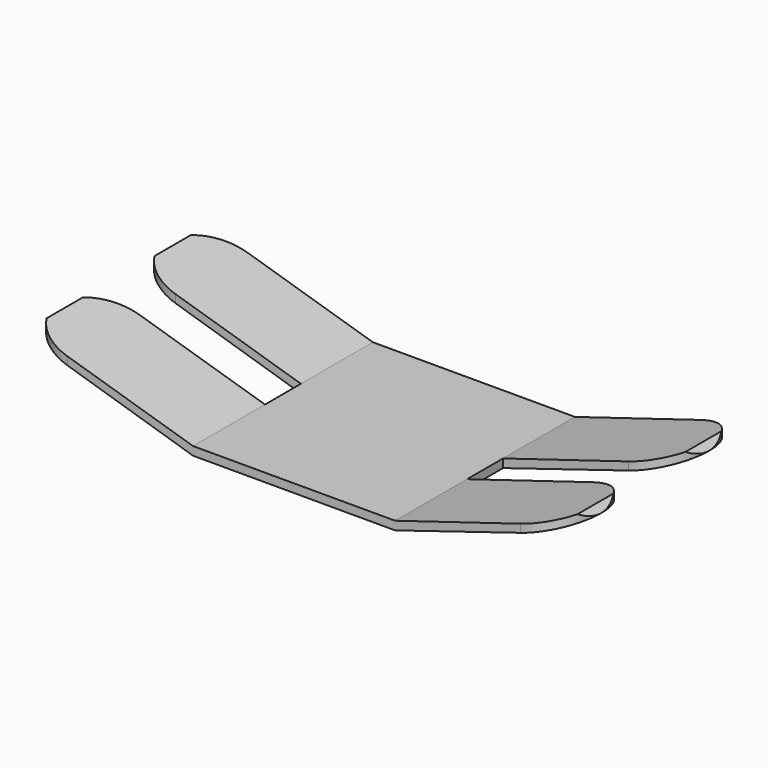
from build123d import *

# Parameters (mm, degrees)
F0_W          = 3.56
F0_H          = 0.15
F1_DEPTH      = 1.98
F1_DEPTH_BACK = 1.98
F3_DEPTH      = 25
F4_W          = 1.269972
F4_H          = 0.792
F5_DEPTH      = 25


with BuildPart() as f1:
    # F0 (on Front) → F1 (new body, two sides)
    with BuildSketch(Plane.XZ) as f1_sk:
        with Locations((0, 0.075)):
            Rectangle(F0_W, F0_H)
        Polygon((-4.78, 0.923934), (-1.78, 0), (-1.78, 0.15), (-4.673934, 1.03), align=None)
        Polygon((1.78, 0.15), (1.78, 0), (4.78, 0.923934), (4.673934, 1.03), align=None)
    extrude(amount=F1_DEPTH)
    extrude(f1_sk.sketch, amount=-F1_DEPTH_BACK)

    # F2 (on face) → F3 (cut)
    with BuildSketch(Plane.XY.offset(0.15)):
        with BuildLine():
            ThreePointArc((-4.78, 1.188), (-4.548029, 1.748029), (-3.988, 1.98))
            Line((-3.988, 1.98), (-3.981051, 2.372488))
            Line((-3.981051, 2.372488), (-5.453913, 2.372488))
            Line((-5.453913, 2.372488), (-5.453913, -2.307775))
            Line((-5.453913, -2.307775), (-3.988, -2.307775))
            Line((-3.988, -2.307775), (-3.988, -1.98))
            ThreePointArc((-3.988, -1.98), (-4.548029, -1.748029), (-4.78, -1.188))
            ThreePointArc((-4.78, -1.188), (-4.548029, -0.627972), (-3.988, -0.396))
            Line((-3.988, -0.396), (-1.78, -0.396))
            Line((-1.78, -0.396), (-1.78, 0))
            Line((-1.78, 0), (-1.78, 0.396))
            Line((-1.78, 0.396), (-3.988, 0.396))
            ThreePointArc((-3.988, 0.396), (-4.548029, 0.627972), (-4.78, 1.188))
        make_face()
        with BuildLine():
            ThreePointArc((3.988, -0.396), (4.548029, -0.627972), (4.78, -1.188))
            ThreePointArc((4.78, -1.188), (4.548029, -1.748029), (3.988, -1.98))
            Line((3.988, -1.98), (3.988, -2.307775))
            Line((3.988, -2.307775), (5.453913, -2.307775))
            Line((5.453913, -2.307775), (5.453913, 2.372488))
            Line((5.453913, 2.372488), (3.981051, 2.372488))
            Line((3.981051, 2.372488), (3.988, 1.98))
            ThreePointArc((3.988, 1.98), (4.548029, 1.748029), (4.78, 1.188))
            ThreePointArc((4.78, 1.188), (4.548029, 0.627972), (3.988, 0.396))
            Line((3.988, 0.396), (1.78, 0.396))
            Line((1.78, 0.396), (1.78, 0))
            Line((1.78, 0), (1.78, -0.396))
            Line((1.78, -0.396), (3.988, -0.396))
        make_face()
    extrude(amount=F3_DEPTH, mode=Mode.SUBTRACT)

    # F4 (on face) → F5 (cut)
    with BuildSketch(Plane.XY.offset(0.15)):
        with Locations((-2.414986, 0)):
            Rectangle(F4_W, F4_H)
        with Locations((2.414986, 0)):
            Rectangle(F4_W, F4_H)
    extrude(amount=-F5_DEPTH, mode=Mode.SUBTRACT)


solid = f1.part
